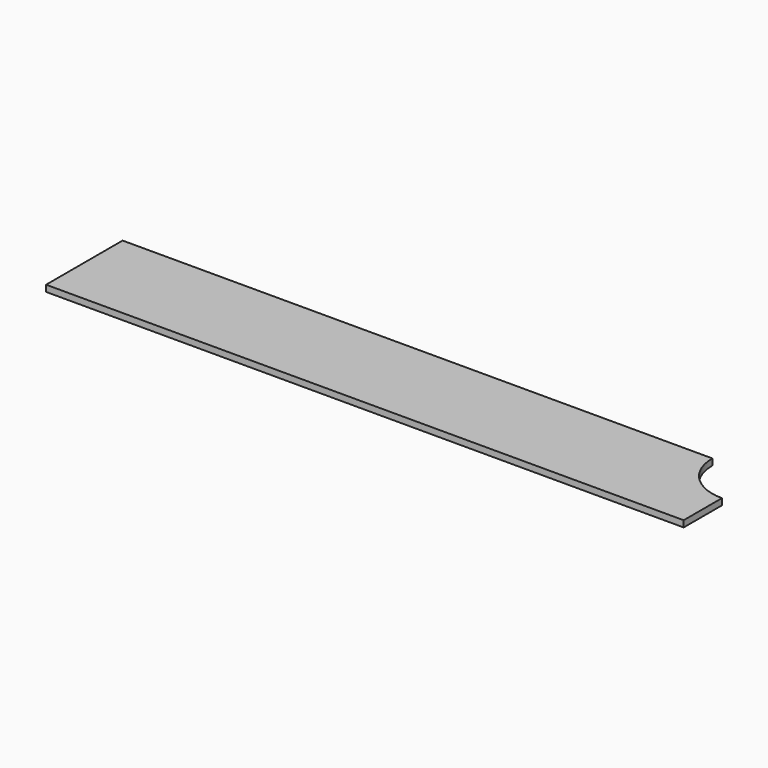
from build123d import *

# Parameters (mm, degrees)
PAD_DEPTH = 1


with BuildPart() as part:
    # Sketch → Pad (new body)
    with BuildSketch(Plane.XY):
        with BuildLine():
            Line((-100, 0), (-7.5, 0))
            ThreePointArc((-7.5, 0), (-5.303301, -5.303301), (0, -7.5))
            Line((0, -7.5), (0, -15))
            Line((0, -15), (-100, -15))
            Line((-100, -15), (-100, 0))
        make_face()
    extrude(amount=PAD_DEPTH)


solid = part.part
